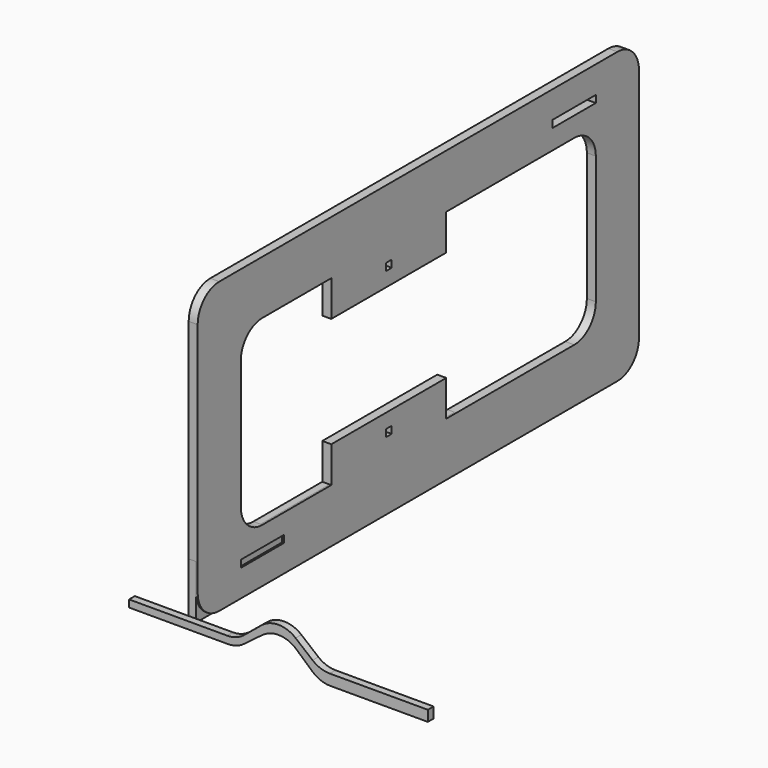
from build123d import *

# Parameters (mm, degrees)
F0_W     = 38.1
F0_H     = 5.08
F0_W_2   = 5.08
F1_DEPTH = 6.35
F2_W     = 228.6
F2_H     = 38.1
F3_DEPTH = 5.08
F5_DEPTH = 5.08


with BuildPart() as f1:
    # F0 (on Right) → F1 (new body)
    with BuildSketch(Plane.YZ):
        with BuildLine():
            ThreePointArc((0, 19.05), (5.579616, 5.579616), (19.05, 0))
            Line((19.05, 0), (370.95, 0))
            ThreePointArc((370.95, 0), (384.420384, 5.579616), (390, 19.05))
            Line((390, 19.05), (390, 185.95))
            ThreePointArc((390, 185.95), (384.420384, 199.420384), (370.95, 205))
            Line((370.95, 205), (19.05, 205))
            ThreePointArc((19.05, 205), (5.579616, 199.420384), (0, 185.95))
            Line((0, 185.95), (0, 19.05))
        make_face()
        with Locations((57.15, 21.59)):
            Rectangle(F0_W, F0_H, mode=Mode.SUBTRACT)
        with Locations((168.877628, 50.8)):
            Rectangle(F0_W_2, F0_H, mode=Mode.SUBTRACT)
        with Locations((168.877628, 154.2)):
            Rectangle(F0_W_2, F0_H, mode=Mode.SUBTRACT)
        with BuildLine():
            ThreePointArc((38.1, 147.85), (43.679616, 161.320384), (57.15, 166.9))
            Line((57.15, 166.9), (118.077628, 166.9))
            Line((118.077628, 166.9), (118.077628, 141.5))
            Line((118.077628, 141.5), (219.677628, 141.5))
            Line((219.677628, 141.5), (219.677628, 166.9))
            Line((219.677628, 166.9), (332.85, 166.9))
            ThreePointArc((332.85, 166.9), (346.320384, 161.320384), (351.9, 147.85))
            Line((351.9, 147.85), (351.9, 57.15))
            ThreePointArc((351.9, 57.15), (346.320384, 43.679616), (332.85, 38.1))
            Line((332.85, 38.1), (219.677628, 38.1))
            Line((219.677628, 38.1), (219.677628, 63.5))
            Line((219.677628, 63.5), (118.077628, 63.5))
            Line((118.077628, 63.5), (118.077628, 38.1))
            Line((118.077628, 38.1), (57.15, 38.1))
            ThreePointArc((57.15, 38.1), (43.679616, 43.679616), (38.1, 57.15))
            Line((38.1, 57.15), (38.1, 147.85))
        make_face(mode=Mode.SUBTRACT)
        with Locations((332.85, 183.41)):
            Rectangle(F0_W, F0_H, mode=Mode.SUBTRACT)
    extrude(amount=F1_DEPTH)


with BuildPart() as f3:
    # F2 (on Right) → F3 (new body)
    with BuildSketch(Plane.YZ):
        with Locations((114.3, 19.05)):
            Rectangle(F2_W, F2_H)
    extrude(amount=F3_DEPTH)


with BuildPart() as f5:
    # F4 (on Front) → F5 (new body)
    with BuildSketch(Plane.XZ):
        with BuildLine():
            Line((31.274364, 2.54), (-38.1, 2.54))
            Line((-38.1, 2.54), (-38.1, -2.54))
            Line((-38.1, -2.54), (31.735173, -2.54))
            ThreePointArc((31.735173, -2.54), (37.771967, -1.558194), (43.186507, 1.286024))
            Line((43.186507, 1.286024), (56.059111, 10.968677))
            ThreePointArc((56.059111, 10.968677), (68.312582, 14.777805), (80.202106, 9.951186))
            Line((80.202106, 9.951186), (91.539308, -0.17714))
            ThreePointArc((91.539308, -0.17714), (97.438733, -3.768632), (104.230969, -5.020654))
            Line((104.230969, -5.020654), (173.160924, -5.020654))
            Line((173.160924, -5.020654), (173.160924, 2.54))
            Line((173.160924, 2.54), (103.786559, 2.54))
            ThreePointArc((103.786559, 2.54), (97.360933, 3.656405), (91.688441, 6.874769))
            Line((91.688441, 6.874769), (79.628581, 16.789776))
            ThreePointArc((79.628581, 16.789776), (67.530462, 21.124545), (55.432343, 16.789776))
            Line((55.432343, 16.789776), (43.372483, 6.874769))
            ThreePointArc((43.372483, 6.874769), (37.699991, 3.656405), (31.274364, 2.54))
        make_face()
    extrude(amount=F5_DEPTH)


solid = Compound([f1.part, f3.part, f5.part])
